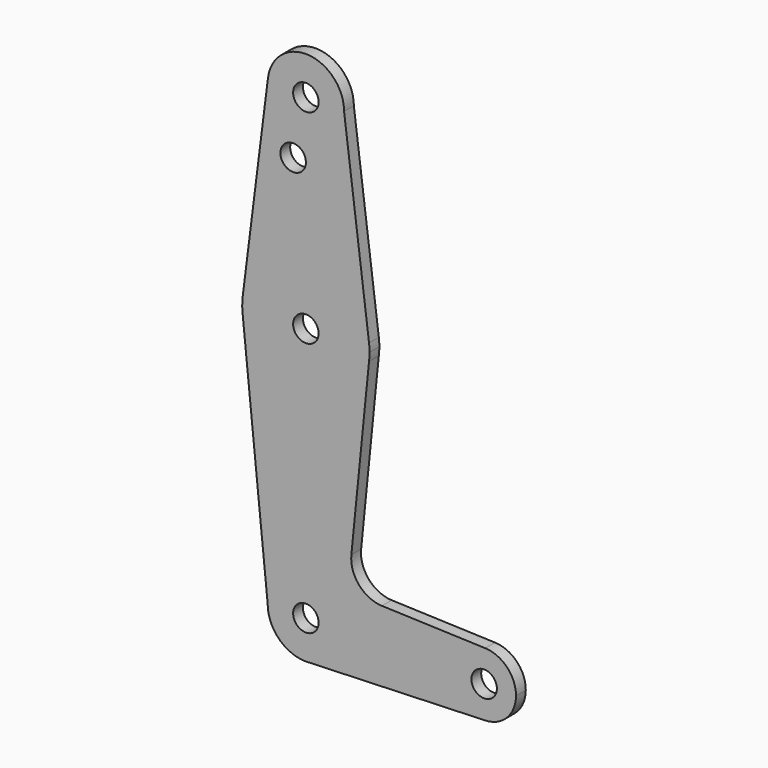
from build123d import *

# Parameters (mm, degrees)
F0_R     = 3.175
F1_DEPTH = 3.048


with BuildPart() as f1:
    # F0 (on Front) → F1 (new body)
    with BuildSketch(Plane.XZ):
        with BuildLine():
            ThreePointArc((-9.450293, 115.490625), (-0.596483, 104.793695), (9.525, 114.3))
            ThreePointArc((9.525, 114.3), (0.596483, 123.806305), (-9.450293, 115.490625))
        make_face()
        with Locations((0, 114.3)):
            Circle(F0_R, mode=Mode.SUBTRACT)
        with BuildLine():
            Line((15.747457, 65.508289), (9.525, 114.3))
            ThreePointArc((9.525, 114.3), (-0.596483, 104.793695), (-9.450293, 115.490625))
            Line((-9.450293, 115.490625), (-15.750488, 65.484375))
            ThreePointArc((-15.750488, 65.484375), (-0.012053, 79.374995), (15.747457, 65.508289))
        make_face()
        with Locations((-3.175, 100.0252)):
            Circle(F0_R, mode=Mode.SUBTRACT)
        with BuildLine():
            ThreePointArc((15.875, 63.5), (15.843082, 64.506168), (15.747457, 65.508289))
            ThreePointArc((15.747457, 65.508289), (-0.012053, 79.374995), (-15.750488, 65.484375))
            ThreePointArc((-15.750488, 65.484375), (-15.873819, 63.693615), (-15.794203, 61.90038))
            ThreePointArc((-15.794203, 61.90038), (-0.205667, 47.626332), (15.747457, 61.491711))
            ThreePointArc((15.747457, 61.491711), (15.843082, 62.493832), (15.875, 63.5))
        make_face()
        with Locations((0, 63.5)):
            Circle(F0_R, mode=Mode.SUBTRACT)
        with BuildLine():
            ThreePointArc((15.747457, 61.491711), (-0.205667, 47.626332), (-15.794203, 61.90038))
            Line((-15.794203, 61.90038), (-9.525, 0))
            ThreePointArc((-9.525, 0), (0, 9.525), (9.525, 0))
            ThreePointArc((9.525, 0), (6.970557, -6.491299), (0.677344, -9.500886))
            Line((0.677344, -9.500886), (44.732405, -7.932475))
            ThreePointArc((44.732405, -7.932475), (36.5125, 0), (44.732405, 7.932475))
            Line((44.732405, 7.932475), (18.966648, 8.849765))
            ThreePointArc((18.966648, 8.849765), (13.259759, 11.567253), (11.339084, 17.58924))
            Line((11.339084, 17.58924), (15.747457, 61.491711))
        make_face()
        with BuildLine():
            ThreePointArc((9.525, 0), (0, 9.525), (-9.525, 0))
            ThreePointArc((-9.525, 0), (-6.735192, -6.735192), (0, -9.525))
            Line((0, -9.525), (0.677344, -9.500886))
            ThreePointArc((0.677344, -9.500886), (6.970557, -6.491299), (9.525, 0))
        make_face()
        Circle(F0_R, mode=Mode.SUBTRACT)
        with BuildLine():
            Line((0.677344, -9.500886), (0, -9.525))
            ThreePointArc((0, -9.525), (0.338886, -9.51897), (0.677344, -9.500886))
        make_face()
        with BuildLine():
            ThreePointArc((52.3875, 0), (50.161633, 5.51191), (44.732405, 7.932475))
            ThreePointArc((44.732405, 7.932475), (36.5125, 0), (44.732405, -7.932475))
            ThreePointArc((44.732405, -7.932475), (50.161633, -5.51191), (52.3875, 0))
        make_face()
        with Locations((44.45, 0)):
            Circle(F0_R, mode=Mode.SUBTRACT)
    extrude(amount=F1_DEPTH)


solid = f1.part
